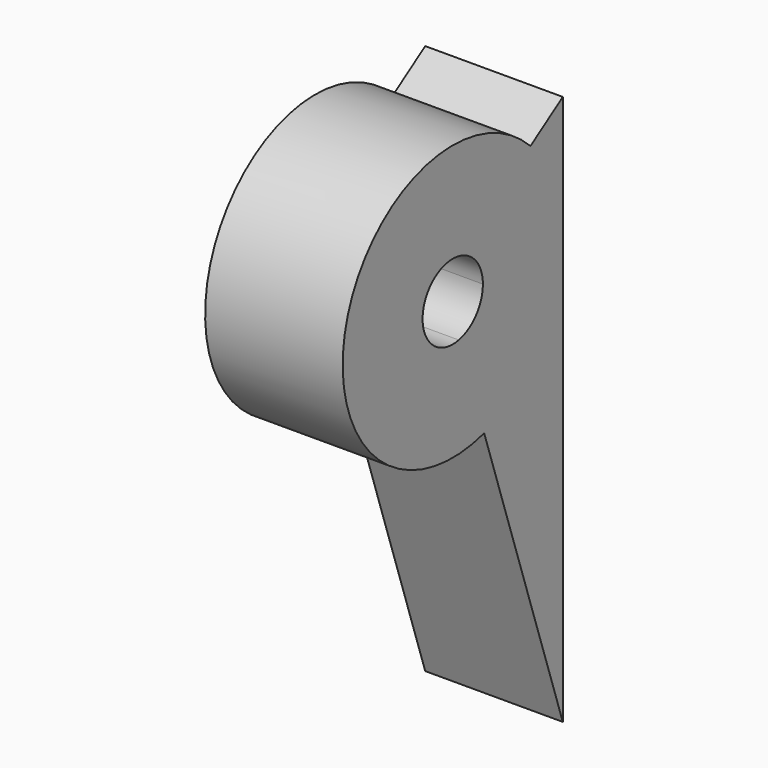
from build123d import *

# Parameters (mm, degrees)
F1_DEPTH = 6.35


with BuildPart() as f1:
    # F0 (on Right) → F1 (new body)
    with BuildSketch(Plane.YZ):
        with BuildLine():
            Line((-44.45, -6.6675), (-44.45, 12.99706))
            ThreePointArc((-44.45, 12.99706), (-45.709134, 9.201592), (-48.987191, 6.911321))
            Line((-48.987191, 6.911321), (-44.45, -6.6675))
        make_face()
        with BuildLine():
            ThreePointArc((-48.987191, 6.911321), (-45.709134, 9.201592), (-44.45, 12.99706))
            ThreePointArc((-44.45, 12.99706), (-44.935046, 15.431156), (-46.316085, 17.493393))
            Line((-46.316085, 17.493393), (-50.50515, 14.711795))
            ThreePointArc((-50.50515, 14.711795), (-49.469537, 14.118274), (-49.0601, 12.99706))
            ThreePointArc((-49.0601, 12.99706), (-49.451985, 11.897012), (-50.451107, 11.2925))
            Line((-50.451107, 11.2925), (-48.987191, 6.911321))
        make_face()
        with BuildLine():
            Line((-50.50515, 14.711795), (-46.316085, 17.493393))
            ThreePointArc((-46.316085, 17.493393), (-56.956886, 14.55117), (-48.987191, 6.911321))
            Line((-48.987191, 6.911321), (-50.451107, 11.2925))
            ThreePointArc((-50.451107, 11.2925), (-52.539683, 12.969564), (-50.50515, 14.711795))
        make_face()
        with BuildLine():
            Line((-44.45, -6.6675), (-44.45, 12.99706))
            ThreePointArc((-44.45, 12.99706), (-45.709134, 9.201592), (-48.987191, 6.911321))
            Line((-48.987191, 6.911321), (-44.45, -6.6675))
        make_face()
        with BuildLine():
            Line((-44.45, 12.99706), (-44.45, 18.7325))
            Line((-44.45, 18.7325), (-46.316085, 17.493393))
            ThreePointArc((-46.316085, 17.493393), (-44.935046, 15.431156), (-44.45, 12.99706))
        make_face()
    extrude(amount=F1_DEPTH)


solid = f1.part
